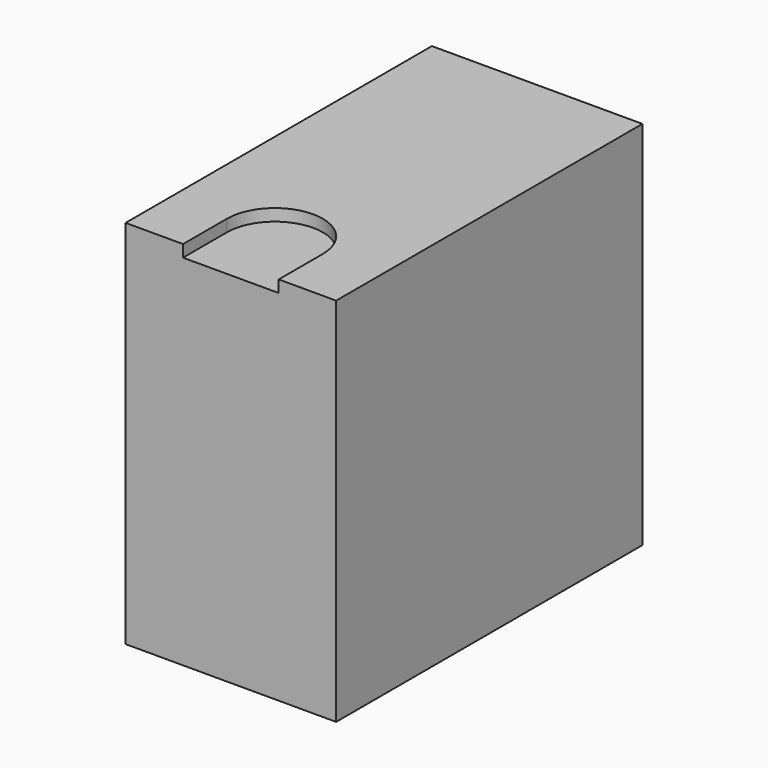
from build123d import *

# Parameters (mm, degrees)
SKETCH_W        = 88
SKETCH_H        = 160
PAD_DEPTH       = 155
SKETCH001_R     = 66
POCKET_DEPTH    = 5
POCKET001_DEPTH = 5
SKETCH003_W     = 24
SKETCH003_H     = 31
PAD001_DEPTH    = 3
SKETCH004_W     = 16
SKETCH004_H     = 23
POCKET002_DEPTH = 16
CHAMFER_SIZE    = 3


with BuildPart() as part:
    # Sketch (on XY_Plane of Origin) → Pad (new body)
    with BuildSketch(Plane.XY):
        Rectangle(SKETCH_W, SKETCH_H)
    extrude(amount=PAD_DEPTH)

    # Sketch001 (on Face4 of Pad) → Pocket (cut)
    with BuildSketch(Plane(origin=(-44, 0, 0), x_dir=(0, -1, 0), z_dir=(-1, 0, 0))):
        with Locations((0, 77.5)):
            Circle(SKETCH001_R)
    extrude(amount=-POCKET_DEPTH, mode=Mode.SUBTRACT)

    # Sketch002 (on Face5 of Pocket) → Pocket001 (cut)
    with BuildSketch(Plane.XY.offset(155)):
        with BuildLine():
            ThreePointArc((20, -56.995285), (0, -36.995285), (-20, -56.995285))
            Line((-20, -56.995285), (-20, -80))
            Line((-20, -80), (20, -80))
            Line((20, -56.995285), (20, -80))
        make_face()
    extrude(amount=-POCKET001_DEPTH, mode=Mode.SUBTRACT)

    # Sketch003 (on Face2 of Pocket001) → Pad001 (join)
    with BuildSketch(Plane(origin=(0, 0, 0), x_dir=(1, 0, 0), z_dir=(0, 0, -1))):
        with Locations((19.978081, 37.081905)):
            Rectangle(SKETCH003_W, SKETCH003_H)
    extrude(amount=PAD001_DEPTH)

    # Sketch004 (on Face16 of Pad001) → Pocket002 (cut)
    with BuildSketch(Plane(origin=(0, 0, -3), x_dir=(1, 0, 0), z_dir=(0, 0, -1))):
        with Locations((19.978081, 37.081905)):
            Rectangle(SKETCH004_W, SKETCH004_H)
    extrude(amount=-POCKET002_DEPTH, mode=Mode.SUBTRACT)

    # Chamfer
    chamfer_edges = [part.edges().sort_by_distance(p)[0] for p in [
        (11.978081, -25.581905, 5),
        (11.978081, -48.581905, 5),
    ]]
    chamfer(chamfer_edges, length=CHAMFER_SIZE)


solid = part.part
